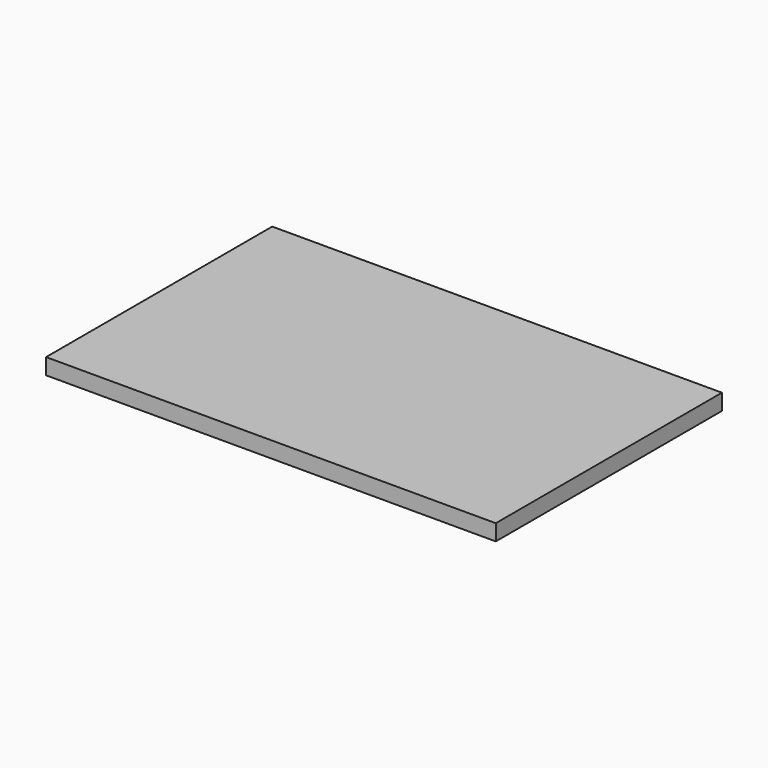
from build123d import *

# Parameters (mm, degrees)
F0_W     = 700
F0_H     = 440
F1_DEPTH = 25
F2_R     = 3
F3_DEPTH = 12


with BuildPart() as f1:
    # F0 (on Top) → F1 (new body)
    with BuildSketch(Plane.XY):
        with Locations((-23.597487, 163.924826)):
            Rectangle(F0_W, F0_H)
    extrude(amount=F1_DEPTH)

    # F2 (on face) → F3 (cut)
    with BuildSketch(Plane(origin=(0, 0, 0), x_dir=(1, 0, 0), z_dir=(0, 0, -1))):
        with Locations((277.402513, 17.075174)):
            Circle(F2_R)
        with Locations((-324.597487, -344.924826)):
            Circle(F2_R)
        with Locations((277.402513, -344.924826)):
            Circle(F2_R)
        with Locations((-324.597487, 17.075174)):
            Circle(F2_R)
    extrude(amount=-F3_DEPTH, mode=Mode.SUBTRACT)


solid = f1.part
